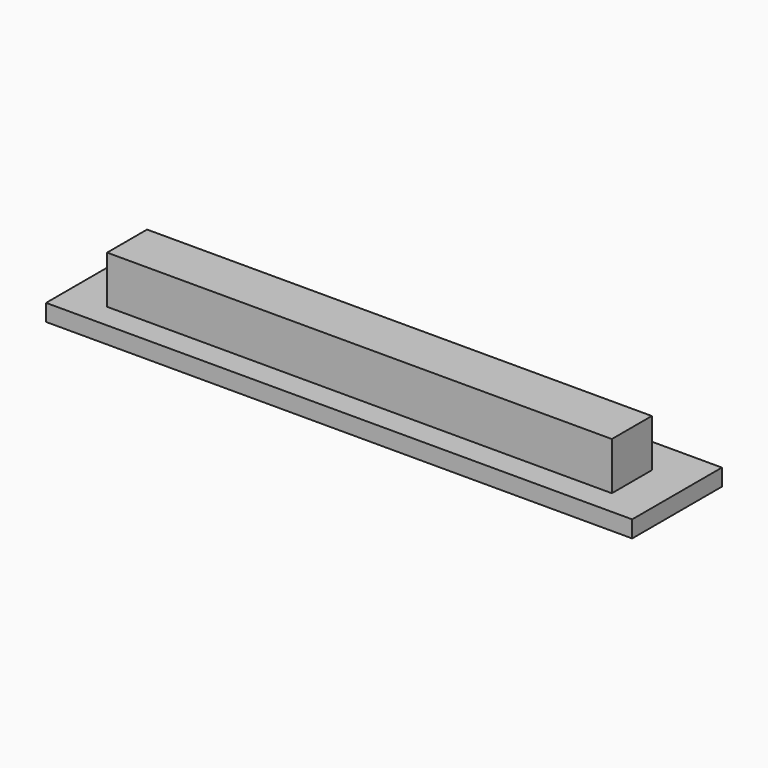
from build123d import *

# Parameters (mm, degrees)
F0_W     = 75.3882750869
F0_H     = 72.0623135567
F1_DEPTH = 381
F2_W     = 884.8471343517
F2_H     = 169.3414449692
F3_DEPTH = 25.4


with BuildPart() as f1:
    # F0 (on Right) → F1 (new body, symmetric)
    with BuildSketch(Plane.YZ):
        with Locations((4.8041529953, -0.1847893)):
            Rectangle(F0_W, F0_H)
    extrude(amount=F1_DEPTH, both=True)

    # F2 (on face) → F3 (join)
    with BuildSketch(Plane(origin=(0, 0, -36.2159460783), x_dir=(1, 0, 0), z_dir=(0, 0, -1))):
        with Locations((-1.0705441236, -14.7237181664)):
            Rectangle(F2_W, F2_H)
    extrude(amount=F3_DEPTH)


solid = f1.part
